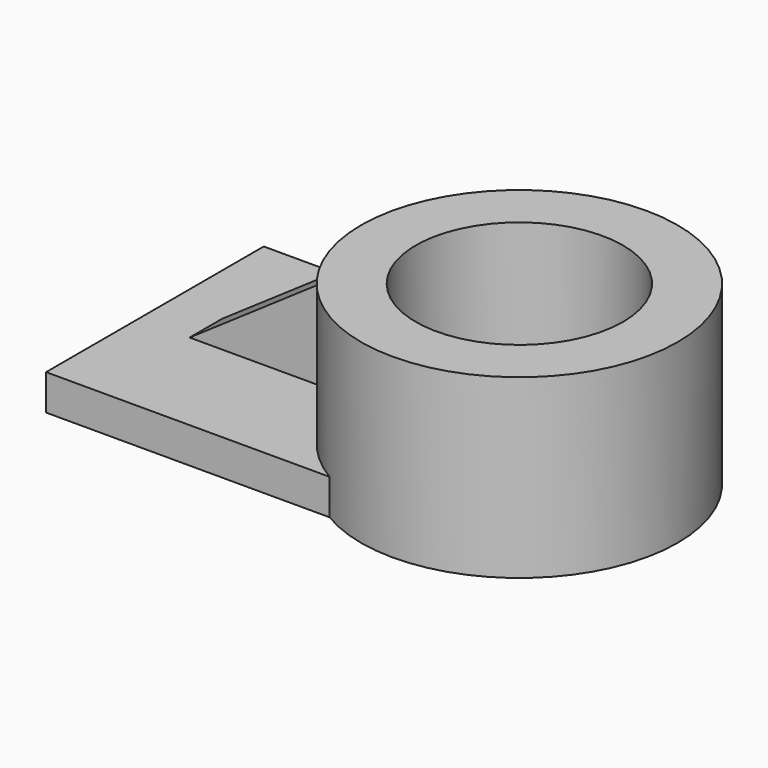
from build123d import *

# Parameters (mm, degrees)
F0_W     = 143.9583450556
F0_H     = 95.0037688017
F1_DEPTH = 12.446
F2_R     = 55.2801974118
F3_DEPTH = 61.722
F4_R     = 36.192071595
F5_DEPTH = 61.723
F7_DEPTH = 7.112


with BuildPart() as f1:
    # F0 (on Top) → F1 (new body)
    with BuildSketch(Plane.XY):
        Rectangle(F0_W, F0_H)
    extrude(amount=F1_DEPTH)

    # F2 (on Top) → F3 (join)
    with BuildSketch(Plane.XY):
        with Locations((55.2801974118, 0)):
            Circle(F2_R)
    extrude(amount=F3_DEPTH)

    # F4 (on face) → F5 (cut, through all)
    with BuildSketch(Plane.XY.offset(61.722)):
        with Locations((55.2801974118, 0)):
            Circle(F4_R)
    extrude(amount=-F5_DEPTH, mode=Mode.SUBTRACT)

    # F6 (on Front) → F7 (join, symmetric)
    with BuildSketch(Plane.XZ):
        Polygon((9.263087064, 7.2733671404), (9.263087064, 56.0136325657), (-61.6970062256, 7.2733671404), align=None)
    extrude(amount=F7_DEPTH, both=True)


solid = f1.part
